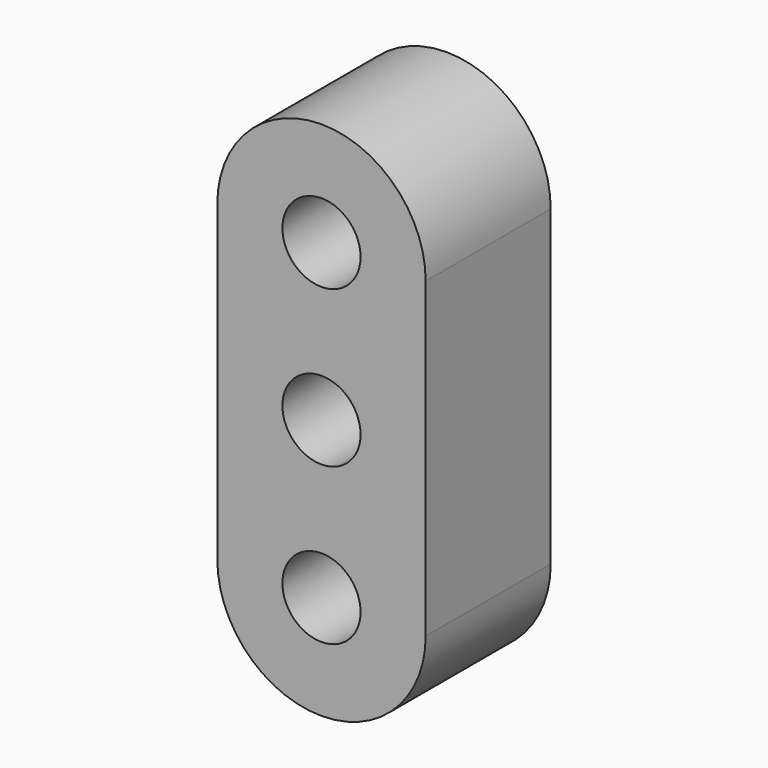
from build123d import *

# Parameters (mm, degrees)
F0_R     = 0.75
F1_DEPTH = 3


with BuildPart() as f1:
    # F0 (on Front) → F1 (new body)
    with BuildSketch(Plane.XZ):
        with BuildLine():
            ThreePointArc((2, 3), (0, 5), (-2, 3))
            Line((-2, 3), (-2, -3))
            ThreePointArc((-2, -3), (0, -5), (2, -3))
            Line((2, -3), (2, 3))
        make_face()
        with Locations((0, -3)):
            Circle(F0_R, mode=Mode.SUBTRACT)
        Circle(F0_R, mode=Mode.SUBTRACT)
        with Locations((0, 3)):
            Circle(F0_R, mode=Mode.SUBTRACT)
    extrude(amount=F1_DEPTH)


solid = f1.part
